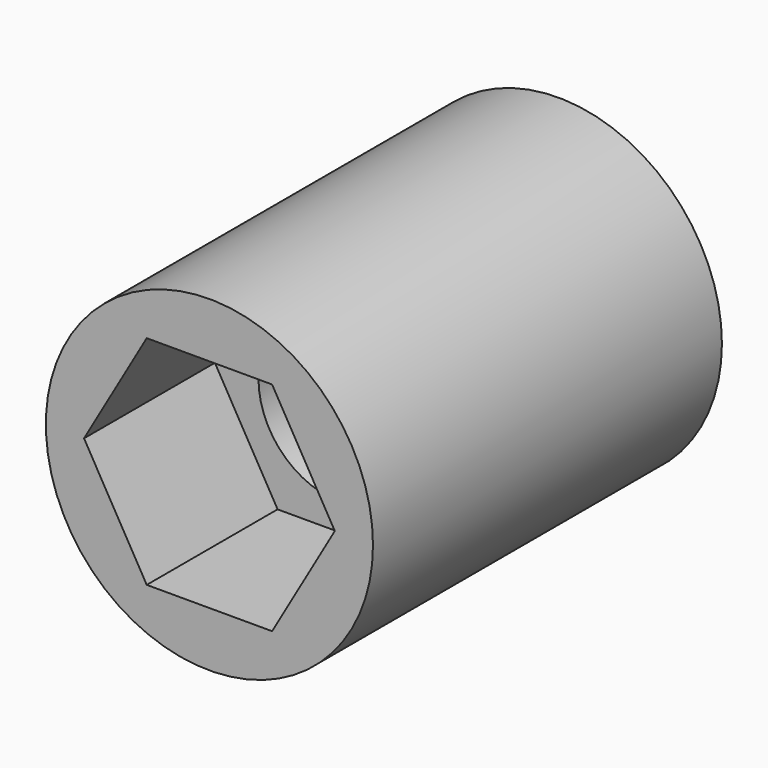
from build123d import *

# Parameters (mm, degrees)
F0_R        = 9.525
F1_DEPTH    = 25.4
F3_DEPTH    = 25.4
F1_FACE_R   = 9.525
F1_FACE_R_2 = 4.7625
F4_DEPTH    = 8.8138
F6_DEPTH    = 9.525


with BuildPart() as f1:
    # F0 (on Front) → F1 (new body)
    with BuildSketch(Plane.XZ):
        Circle(F0_R)
    extrude(amount=F1_DEPTH)

    # F2 (on Front) → F3 (cut)
    with BuildSketch(Plane.XZ):
        with BuildLine():
            ThreePointArc((4.7625, 0), (3.3675960454, 3.3675960454), (0, 4.7625))
            ThreePointArc((0, 4.7625), (-3.3675960454, 3.3675960454), (-4.7625, 0))
            ThreePointArc((-4.7625, 0), (-3.3675960454, -3.3675960454), (0, -4.7625))
            ThreePointArc((0, -4.7625), (3.3675960454, -3.3675960454), (4.7625, 0))
        make_face()
    extrude(amount=F3_DEPTH, mode=Mode.SUBTRACT)

    # F2 (on Front) + F1_face (on face) → F4 (cut)
    with BuildSketch(Plane.XZ):
        with BuildLine():
            Line((4.7625, 0), (4.7625, 4.7625))
            Line((4.7625, 4.7625), (0, 4.7625))
            ThreePointArc((0, 4.7625), (3.3675960454, 3.3675960454), (4.7625, 0))
        make_face()
        with BuildLine():
            ThreePointArc((-4.7625, 0), (-3.3675960454, 3.3675960454), (0, 4.7625))
            Line((0, 4.7625), (-4.7625, 4.7625))
            Line((-4.7625, 4.7625), (-4.7625, 0))
        make_face()
        with BuildLine():
            ThreePointArc((4.7625, 0), (3.3675960454, 3.3675960454), (0, 4.7625))
            ThreePointArc((0, 4.7625), (-3.3675960454, 3.3675960454), (-4.7625, 0))
            ThreePointArc((-4.7625, 0), (-3.3675960454, -3.3675960454), (0, -4.7625))
            ThreePointArc((0, -4.7625), (3.3675960454, -3.3675960454), (4.7625, 0))
        make_face()
        with BuildLine():
            Line((4.7625, -4.7625), (4.7625, 0))
            ThreePointArc((4.7625, 0), (3.3675960454, -3.3675960454), (0, -4.7625))
            Line((0, -4.7625), (4.7625, -4.7625))
        make_face()
        with BuildLine():
            ThreePointArc((0, -4.7625), (-3.3675960454, -3.3675960454), (-4.7625, 0))
            Line((-4.7625, 0), (-4.7625, -4.7625))
            Line((-4.7625, -4.7625), (0, -4.7625))
        make_face()
    with BuildSketch(Plane.XZ.offset(25.4)):
        Circle(F1_FACE_R)
        Circle(F1_FACE_R_2, mode=Mode.SUBTRACT)
    extrude(amount=F4_DEPTH, mode=Mode.SUBTRACT)

    # F5 (on face) → F6 (cut)
    with BuildSketch(Plane.XZ.offset(25.4)):
        Polygon((-3.65125, -6.3241505111), (3.65125, -6.3241505111), (7.3025, 0), (3.65125, 6.3241505111), (-3.65125, 6.3241505111), (-7.3025, 0), align=None)
    extrude(amount=-F6_DEPTH, mode=Mode.SUBTRACT)


solid = f1.part
